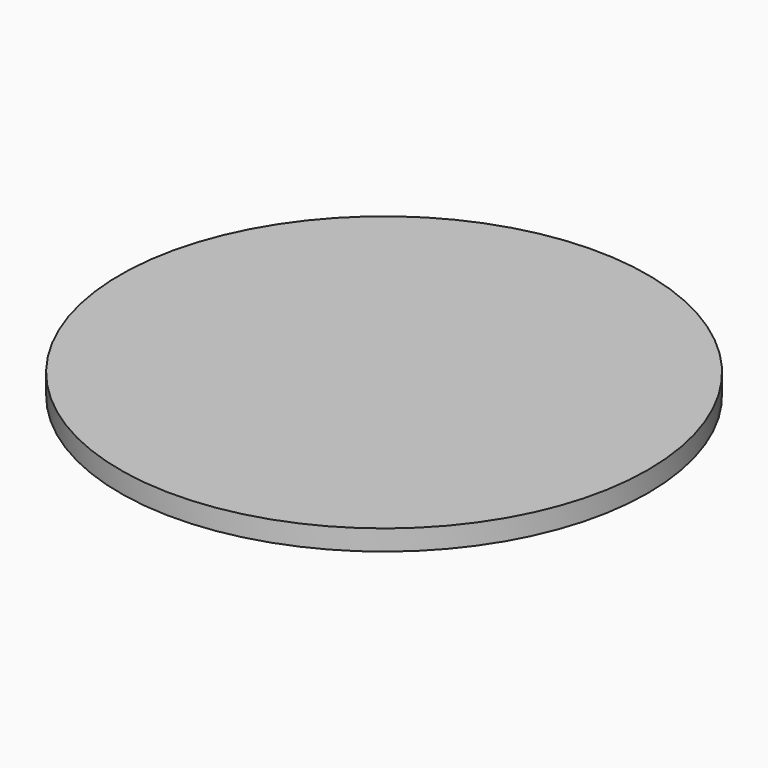
from build123d import *

# Parameters (mm, degrees)
F0_R     = 14.25
F0_R_2   = 2.5
F1_DEPTH = 16
F2_DEPTH = 19
F3_R     = 77.5
F4_DEPTH = 6
F5_R     = 4.15
F6_DEPTH = 4


with BuildPart() as f1:
    # F0 (on Top) → F1 (new body)
    with BuildSketch(Plane.XY):
        Circle(F0_R)
        Circle(F0_R_2, mode=Mode.SUBTRACT)
    extrude(amount=F1_DEPTH)

    # F0 (on Top) → F2 (join)
    with BuildSketch(Plane.XY):
        Circle(F0_R_2)
    extrude(amount=F2_DEPTH)

    # F3 (on face) → F4 (join)
    with BuildSketch(Plane.XY.offset(16)):
        Circle(F3_R)
    extrude(amount=F4_DEPTH)

    # F5 (on face) → F6 (join)
    with BuildSketch(Plane(origin=(0, 0, 0), x_dir=(1, 0, 0), z_dir=(0, 0, -1))):
        Circle(F5_R)
    extrude(amount=F6_DEPTH)


solid = f1.part
